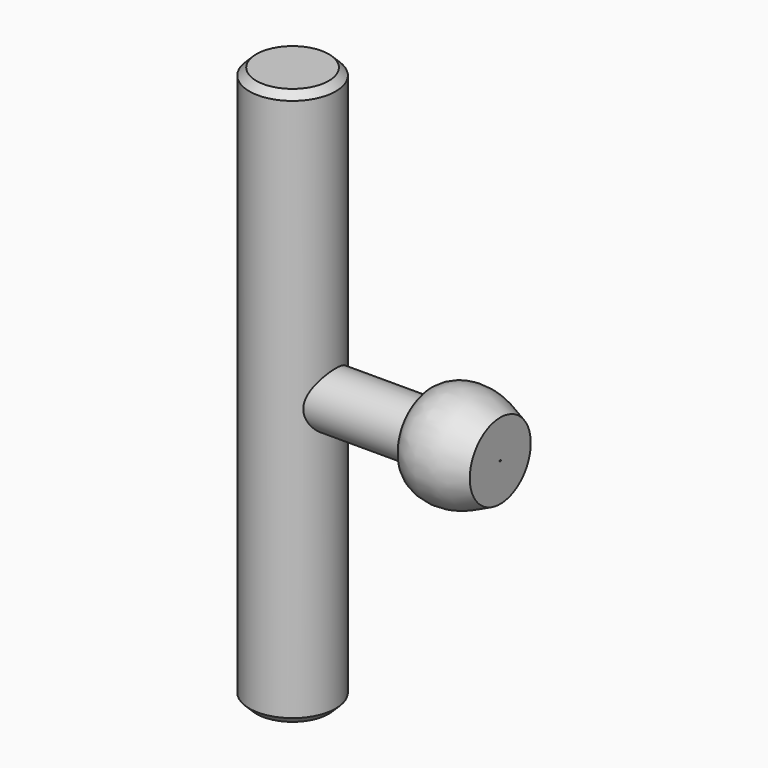
from build123d import *

# Parameters (mm, degrees)
F0_R     = 3.937
F1_DEPTH = 50.8
F2_R     = 2.54
F3_DEPTH = 15.24
F6_SIZE  = 0.635


with BuildPart() as f1:
    # F0 (on Top) → F1 (new body)
    with BuildSketch(Plane.XY):
        Circle(F0_R)
    extrude(amount=F1_DEPTH)

    # F2 (on Right) → F3 (join)
    with BuildSketch(Plane.YZ):
        with Locations((0, 25.4)):
            Circle(F2_R)
    extrude(amount=F3_DEPTH)

    # F4 (on Front) → F5 (revolve)
    with BuildSketch(Plane.XZ):
        with BuildLine():
            add(Edge.make_bspline(
                [(18.9343895763, 28.8740284741), (17.7644916054, 29.4402146526), (15.5309316536, 30.5211728258), (11.5248021674, 29.2662104574), (12.2419333681, 26.7555454392), (12.6073630527, 25.4761818796)],
                knots=[0, 0, 0, 0, 0.350400992, 0.6689828021, 1, 1, 1, 1], degree=3))
            Line((12.6073630527, 25.4761818796), (18.9343895763, 25.4761818796))
            Line((18.9343895763, 25.4761818796), (18.9343895763, 28.8740284741))
        make_face()
    revolve(axis=Axis((15.24, 0, 25.4), (1, 0, 0)))

    # F6
    f6_edges = [f1.edges().sort_by_distance(p)[0] for p in [
        (-3.937, 0, 50.8),
        (-3.937, 0, 0),
    ]]
    chamfer(f6_edges, length=F6_SIZE)


solid = f1.part
